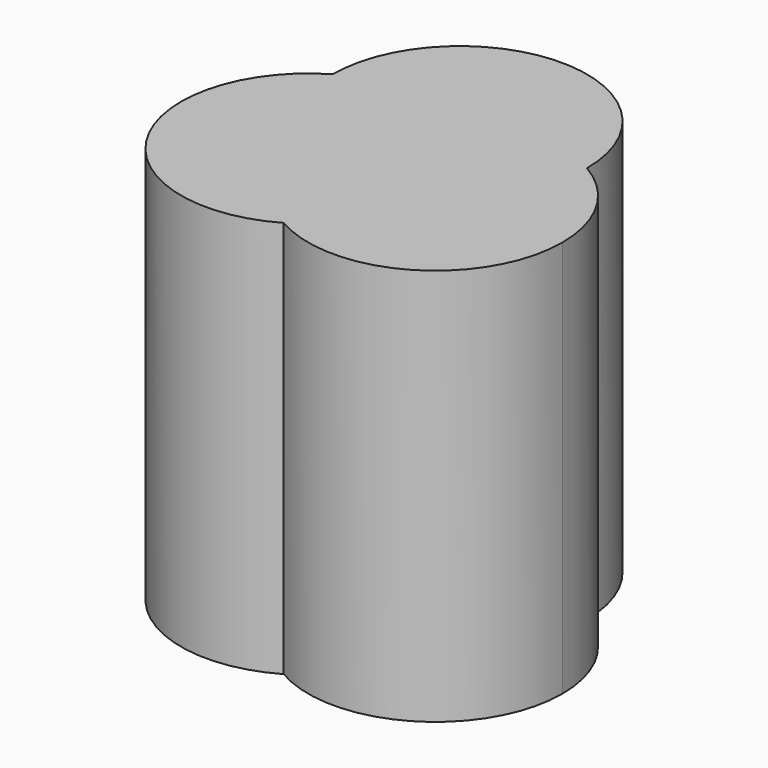
from build123d import *

# Parameters (mm, degrees)
F1_DEPTH = 5


with BuildPart() as f1:
    # F0 (on Top) → F1 (new body)
    with BuildSketch(Plane.XY):
        with BuildLine():
            ThreePointArc((-2.4, 1.3856406461), (-2.9856406461, -0.8), (-0.8, -1.3856406461))
            ThreePointArc((-0.8, -1.3856406461), (-1.3856406461, -0.8), (-1.6, 0))
            ThreePointArc((-1.6, 0), (-2.1856406461, 0.5856406461), (-2.4, 1.3856406461))
        make_face()
        with BuildLine():
            ThreePointArc((-0.8, -1.3856406461), (0.8, -1.3856406461), (1.6, 0))
            ThreePointArc((1.6, 0), (1.3856406461, 0.8), (0.8, 1.3856406461))
            ThreePointArc((0.8, 1.3856406461), (0.5856406461, 0.5856406461), (0, 0))
            ThreePointArc((0, 0), (-0.2143593539, -0.8), (-0.8, -1.3856406461))
        make_face()
        with BuildLine():
            ThreePointArc((0, 0), (0.5856406461, 0.5856406461), (0.8, 1.3856406461))
            ThreePointArc((0.8, 1.3856406461), (0, 1.6), (-0.8, 1.3856406461))
            ThreePointArc((-0.8, 1.3856406461), (-0.2143593539, 0.8), (0, 0))
        make_face()
        with BuildLine():
            ThreePointArc((-0.8, 1.3856406461), (0, 1.6), (0.8, 1.3856406461))
            ThreePointArc((0.8, 1.3856406461), (-0.8, 2.9856406461), (-2.4, 1.3856406461))
            ThreePointArc((-2.4, 1.3856406461), (-1.6, 1.6), (-0.8, 1.3856406461))
        make_face()
        with BuildLine():
            ThreePointArc((-1.6, 0), (-1.3856406461, 0.8), (-0.8, 1.3856406461))
            ThreePointArc((-0.8, 1.3856406461), (-1.6, 1.6), (-2.4, 1.3856406461))
            ThreePointArc((-2.4, 1.3856406461), (-2.1856406461, 0.5856406461), (-1.6, 0))
        make_face()
        with BuildLine():
            ThreePointArc((-1.6, 0), (-1.3856406461, -0.8), (-0.8, -1.3856406461))
            ThreePointArc((-0.8, -1.3856406461), (-0.2143593539, -0.8), (0, 0))
            ThreePointArc((0, 0), (-0.8, -0.2143593539), (-1.6, 0))
        make_face()
        with BuildLine():
            ThreePointArc((0, 0), (-0.2143593539, 0.8), (-0.8, 1.3856406461))
            ThreePointArc((-0.8, 1.3856406461), (-1.3856406461, 0.8), (-1.6, 0))
            ThreePointArc((-1.6, 0), (-0.8, -0.2143593539), (0, 0))
        make_face()
    extrude(amount=F1_DEPTH)


solid = f1.part
